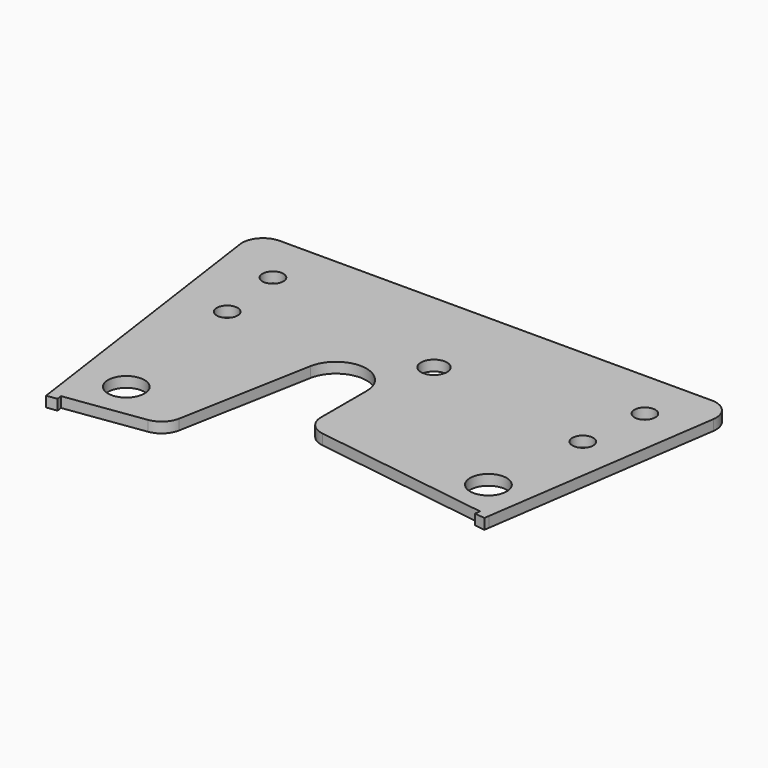
from build123d import *

# Parameters (mm, degrees)
F0_R     = 3.5
F0_R_2   = 2
F0_R_3   = 2.5
F1_DEPTH = 2


with BuildPart() as f1:
    # F0 (on Top) → F1 (new body)
    with BuildSketch(Plane.XY):
        with BuildLine():
            Line((48.211455, 39.142016), (-34.55684, 39.142016))
            ThreePointArc((-34.55684, 39.142016), (-37.577126, 37.764586), (-38.517295, 34.580952))
            Line((-38.517295, 34.580952), (-30.663446, -20.857984))
            Line((-30.663446, -20.857984), (-30.522654, -21.85181))
            Line((-30.522654, -21.85181), (-28.541132, -21.571095))
            Line((-28.541132, -21.571095), (-28.681924, -20.577268))
            Line((-28.681924, -20.577268), (-13.710535, -18.456321))
            ThreePointArc((-13.710535, -18.456321), (-11.503202, -17.383075), (-10.338201, -15.222762))
            Line((-10.338201, -15.222762), (-5.620491, 10.305841))
            ThreePointArc((-5.620491, 10.305841), (0.727915, 15.056908), (5.968848, 9.106487))
            Line((5.968848, 9.106487), (5.968848, -1.630937))
            ThreePointArc((5.968848, -1.630937), (6.943367, -4.247512), (9.392082, -5.589136))
            Line((9.392082, -5.589136), (43.570379, -10.569402))
            Line((43.570379, -10.569402), (43.425549, -11.563333))
            Line((43.425549, -11.563333), (45.40601, -11.851914))
            Line((45.40601, -11.851914), (45.55084, -10.857984))
            Line((45.55084, -10.857984), (52.169654, 34.56525))
            ThreePointArc((52.169654, 34.56525), (51.236935, 37.758592), (48.211455, 39.142016))
        make_face()
        with Locations((-22.956507, -12.116765)):
            Circle(F0_R, mode=Mode.SUBTRACT)
        with Locations((39.156082, -3.047908)):
            Circle(F0_R, mode=Mode.SUBTRACT)
        with Locations((-26.360626, 16.307655)):
            Circle(F0_R_2, mode=Mode.SUBTRACT)
        with Locations((-27.927939, 29.214935)):
            Circle(F0_R_2, mode=Mode.SUBTRACT)
        with Locations((9.04162, 21.562555)):
            Circle(F0_R_3, mode=Mode.SUBTRACT)
        with Locations((41.474904, 16.660193)):
            Circle(F0_R_2, mode=Mode.SUBTRACT)
        with Locations((43.04162, 29.562555)):
            Circle(F0_R_2, mode=Mode.SUBTRACT)
    extrude(amount=F1_DEPTH)


solid = f1.part
